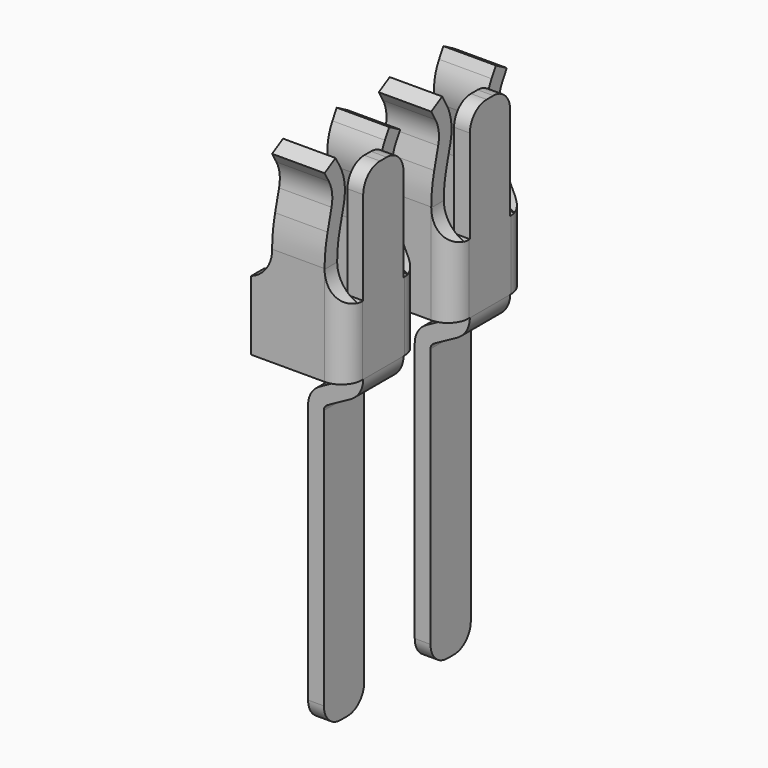
from build123d import *

# Parameters (mm, degrees)
SKETCH011_AS_DRAWN_W                 = 1.841523
SKETCH011_AS_DRAWN_H                 = 4.46891
EXTRUDE007_DEPTH                     = 2
EXTRUDE007_ONTO_SKETCH011_ROLL_ANGLE = 90
SKETCH005_W                          = 0.9
SKETCH005_H                          = 0.9
EXTRUDE003_DEPTH                     = 4
FILLET002_R                          = 0.2
EXTRUDE004_DEPTH                     = 1
EXTRUDE004_ONTO_SKETCH008_ROLL_ANGLE = 90
SKETCH007_W                          = 0.9
SKETCH007_H                          = 0.15
EXTRUDE002_DEPTH                     = 1.5
FILLET001_R                          = 0.2
THICKNESS_T                          = -0.15
SKETCH004_W                          = 0.15
SKETCH004_H                          = 0.48
FILLET_R                             = 0.2
SKETCH010_AS_DRAWN_W                 = 1.529851
SKETCH010_AS_DRAWN_H                 = 0.95
EXTRUDE006_DEPTH                     = 2
EXTRUDE006_ONTO_SKETCH010_ROLL_ANGLE = 90
SKETCH_AS_DRAWN_W                    = 1.636987
SKETCH_AS_DRAWN_H                    = 6.538326
EXTRUDE_DEPTH                        = 2
EXTRUDE_ONTO_SKETCH_ROLL_ANGLE       = 90
ARRAY_Y_COUNT                        = 2
ARRAY_Y_PITCH                        = 1.27


with BuildPart() as extrude007:
    # Sketch011 as drawn → Extrude007 (new)
    with BuildSketch(Plane.XY):
        with Locations((0.079239, 2.394455)):
            Rectangle(SKETCH011_AS_DRAWN_W, SKETCH011_AS_DRAWN_H)
    extrude(amount=-EXTRUDE007_DEPTH)


with BuildPart() as extrude007_1:
    # Extrude007 onto Sketch011 roll: moved
    add(extrude007.part.rotate(Axis((0, 0, 0), (1, 0, 0)), EXTRUDE007_ONTO_SKETCH011_ROLL_ANGLE))


with BuildPart() as extrude007_2:
    # Extrude007 onto Sketch011 placement: moved
    add(extrude007_1.part.moved(Location((0, -1, 0))))


with BuildPart() as fillet002:
    # Sketch005 → Extrude003 (new body)
    with BuildSketch(Plane.XY.offset(0.06)):
        Rectangle(SKETCH005_W, SKETCH005_H)
    extrude(amount=EXTRUDE003_DEPTH)

    # Fillet002
    fillet002_edges = [fillet002.edges().sort_by_distance(p)[0] for p in [
        (0.45, 0.45, 2.06),
        (0.45, -0.45, 2.06),
    ]]
    fillet(fillet002_edges, radius=FILLET002_R)


with BuildPart() as extrude004:
    # Sketch008 as drawn → Extrude004 (new)
    with BuildSketch(Plane.XY):
        with BuildLine():
            Line((-0.25, 3.976049), (-0.25, 1.843157))
            ThreePointArc((-0.437624, 1.565), (-0.301291, 1.675397), (-0.25, 1.843157))
            Line((-0.437624, 1.565), (-0.45, 1.56))
            Line((-0.905765, 1.56), (-0.45, 1.56))
            Line((-0.905765, 3.976049), (-0.905765, 1.56))
            Line((-0.25, 3.976049), (-0.905765, 3.976049))
        make_face()
    extrude(amount=-EXTRUDE004_DEPTH)


with BuildPart() as extrude004_1:
    # Extrude004 onto Sketch008 roll: moved
    add(extrude004.part.rotate(Axis((0, 0, 0), (1, 0, 0)), EXTRUDE004_ONTO_SKETCH008_ROLL_ANGLE))


with BuildPart() as extrude004_2:
    # Extrude004 onto Sketch008 placement: moved
    add(extrude004_1.part.moved(Location((0, -0.45, 0))))


with BuildPart() as fusion:
    # Part__Mirroring: instance of Extrude004
    add(extrude004_2.part.mirror(Plane(origin=(0, 0, 0), x_dir=(0, -1, 0), z_dir=(1, 0, 0))))

    # Fusion: union Extrude004
    add(extrude004_2.part)


with BuildPart() as common:
    # Sweep001: sweep along a path in Sketch006
    with BuildLine(Plane(origin=(0, 0, 0), x_dir=(0, -1, 0), z_dir=(-1, 0, 0))) as sweep001_path:
        Line((0.45, 1.56), (0.45, 3))
        ThreePointArc((0.45, 3), (0.441029, 3.146792), (0.414248, 3.291399))
        Line((0.414248, 3.291399), (0.367236, 3.480101))
        ThreePointArc((0.367236, 3.480101), (0.360881, 3.598166), (0.398859, 3.710136))
        Line((0.398859, 3.710136), (0.45, 3.8))
    # Sketch007 → Sweep001 (sweep)
    with BuildSketch(Plane.XY.offset(1.56)):
        with Locations((0, -0.375)):
            Rectangle(SKETCH007_W, SKETCH007_H)
    sweep(path=sweep001_path.line, is_frenet=True)

    # Cut001: cut Fusion
    add(fusion.part, mode=Mode.SUBTRACT)

    # Common: intersect Fillet002
    add(fillet002.part, mode=Mode.INTERSECT)


with BuildPart() as thickness:
    # Sketch005 → Extrude002 (new body)
    with BuildSketch(Plane.XY.offset(0.06)):
        Rectangle(SKETCH005_W, SKETCH005_H)
    extrude(amount=EXTRUDE002_DEPTH)

    # Fillet001
    fillet001_edges = [thickness.edges().sort_by_distance(p)[0] for p in [
        (0.45, 0.45, 0.81),
        (0.45, -0.45, 0.81),
    ]]
    fillet(fillet001_edges, radius=FILLET001_R)

    # Thickness
    thickness_openings = [thickness.faces().sort_by_distance(p)[0] for p in [
        (-0.008777, 0, 1.56),
        (-0.45, 0, 0.81),
        (-0.008777, 0, 0.06),
    ]]
    offset(amount=THICKNESS_T, openings=thickness_openings, kind=Kind.INTERSECTION)


with BuildPart() as fillet_body:
    # Sweep: sweep along a path in Sketch003
    with BuildLine(Plane.XZ) as sweep_path:
        Line((0, -3), (0, -0.322351))
        ThreePointArc((0, -0.322351), (0.0193, -0.251897), (0.071813, -0.201115))
        Line((0.071813, -0.201115), (0.291701, -0.080628))
        ThreePointArc((0.291701, -0.080628), (0.352612, -0.021724), (0.375, 0.06))
        Line((0.375, 0.06), (0.375, 3.8))
    # Sketch004 → Sweep (sweep)
    with BuildSketch(Plane.XY.offset(-3)):
        Rectangle(SKETCH004_W, SKETCH004_H)
    sweep(path=sweep_path.line, is_frenet=True)

    # Fillet
    fillet_edges = [fillet_body.edges().sort_by_distance(p)[0] for p in [
        (0, 0.24, -3),
        (0, -0.24, -3),
        (0.375, 0.24, 3.8),
        (0.375, -0.24, 3.8),
    ]]
    fillet(fillet_edges, radius=FILLET_R)


with BuildPart() as pinsocket:
    # Part__Mirroring001: instance of Common
    add(common.part.mirror(Plane(origin=(0, 0, 0), x_dir=(1, 0, 0), z_dir=(0, 1, 0))))

    # Fusion001: union Common, Thickness, Fillet body
    add(common.part)
    add(thickness.part)
    add(fillet_body.part)


with BuildPart() as pinsocket_1:
    # Fusion001 placement: moved
    add(pinsocket.part.moved(Location((0, 0, 0.1))))


with BuildPart() as cut002:
    # Cut002 base: copy of pinSocket
    add(pinsocket_1.part)

    # Cut002: cut Extrude007
    add(extrude007_2.part, mode=Mode.SUBTRACT)


with BuildPart() as extrude006:
    # Sketch010 as drawn → Extrude006 (new)
    with BuildSketch(Plane.XY):
        with Locations((-0.076597, 1.475)):
            Rectangle(SKETCH010_AS_DRAWN_W, SKETCH010_AS_DRAWN_H)
    extrude(amount=-EXTRUDE006_DEPTH)


with BuildPart() as extrude006_1:
    # Extrude006 onto Sketch010 roll: moved
    add(extrude006.part.rotate(Axis((0, 0, 0), (1, 0, 0)), EXTRUDE006_ONTO_SKETCH010_ROLL_ANGLE))


with BuildPart() as extrude006_2:
    # Extrude006 onto Sketch010 placement: moved
    add(extrude006_1.part.moved(Location((0, -1, 0))))


with BuildPart() as common001:
    # Common001 base: copy of pinSocket
    add(pinsocket_1.part)

    # Common001: intersect Extrude006
    add(extrude006_2.part, mode=Mode.INTERSECT)


with BuildPart() as common001_1:
    # Common001 placement: moved
    add(common001.part.moved(Location((0, 0, -0.84))))


with BuildPart() as extrude_body:
    # Sketch as drawn → Extrude (new)
    with BuildSketch(Plane.XY):
        with Locations((0.00434, -0.169163)):
            Rectangle(SKETCH_AS_DRAWN_W, SKETCH_AS_DRAWN_H)
    extrude(amount=-EXTRUDE_DEPTH)


with BuildPart() as extrude_body_1:
    # Extrude onto Sketch roll: moved
    add(extrude_body.part.rotate(Axis((0, 0, 0), (1, 0, 0)), EXTRUDE_ONTO_SKETCH_ROLL_ANGLE))


with BuildPart() as extrude_body_2:
    # Extrude onto Sketch placement: moved
    add(extrude_body_1.part.moved(Location((0, -1, 0))))


with BuildPart() as array:
    # Cut base: copy of pinSocket
    add(pinsocket_1.part)

    # Cut: cut Extrude body
    add(extrude_body_2.part, mode=Mode.SUBTRACT)


with BuildPart() as array_1:
    # Cut placement: moved
    add(array.part.moved(Location((0, 0, -1.99))))

    # Fusion002: union Cut002, Common001
    add(cut002.part)
    add(common001_1.part)

    # Array Y: Array ×2


with BuildPart() as array_2:
    add(array_1.part)
    with Locations(*[(0, i * ARRAY_Y_PITCH, 0) for i in range(1, ARRAY_Y_COUNT)]):
        add(array_1.part)


solid = array_2.part
